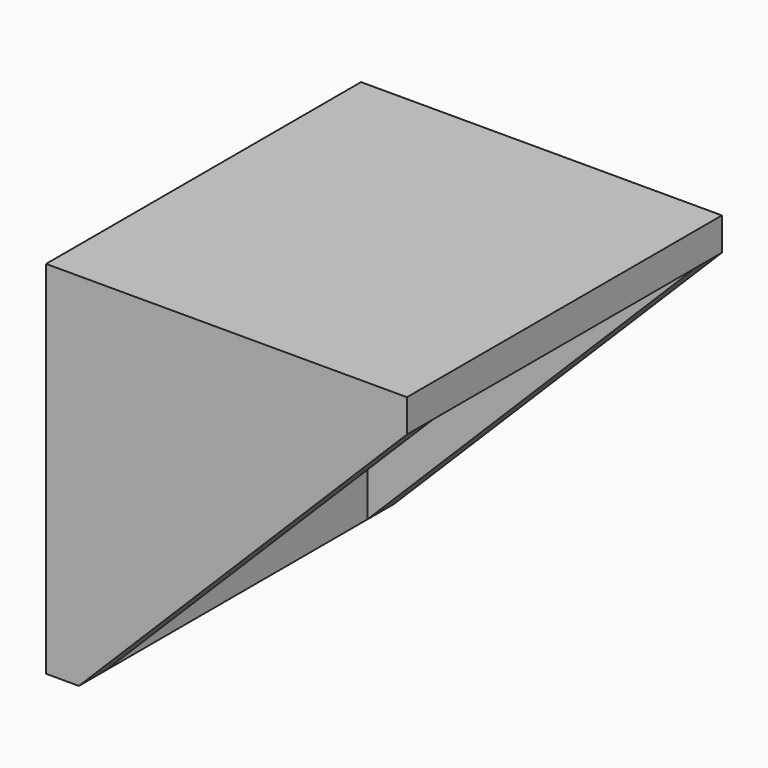
from build123d import *

# Parameters (mm, degrees)
F2_W     = 5
F2_H     = 50
F2_W_2   = 50
F3_DEPTH = 5
F4_DEPTH = 50
F6_DEPTH = 60.001


with BuildPart() as f3:
    # F2 (on Top) → F3 (new body)
    with BuildSketch(Plane.XY):
        Polygon((-30, 25), (-25, 25), (25, 25), (25, 30), (-30, 30), align=None)
        with Locations((-27.5, 0)):
            Rectangle(F2_W, F2_H)
        Rectangle(F2_W_2, F2_H)
        Polygon((25, -25), (-25, -25), (-30, -25), (-30, -30), (25, -30), align=None)
    extrude(amount=F3_DEPTH)

    # F2 (on Top) → F4 (join)
    with BuildSketch(Plane.XY):
        Polygon((25, -25), (-25, -25), (-30, -25), (-30, -30), (25, -30), align=None)
        Polygon((-30, 25), (-25, 25), (25, 25), (25, 30), (-30, 30), align=None)
        with Locations((-27.5, 0)):
            Rectangle(F2_W, F2_H)
    extrude(amount=-F4_DEPTH)

    # F5 (on face) → F6 (cut, through all)
    with BuildSketch(Plane(origin=(0, 30, 0), x_dir=(-1, 0, 0), z_dir=(0, 1, 0))):
        Polygon((25, -50), (-25, 0), (-25, -50), align=None)
    extrude(amount=-F6_DEPTH, mode=Mode.SUBTRACT)


solid = f3.part
